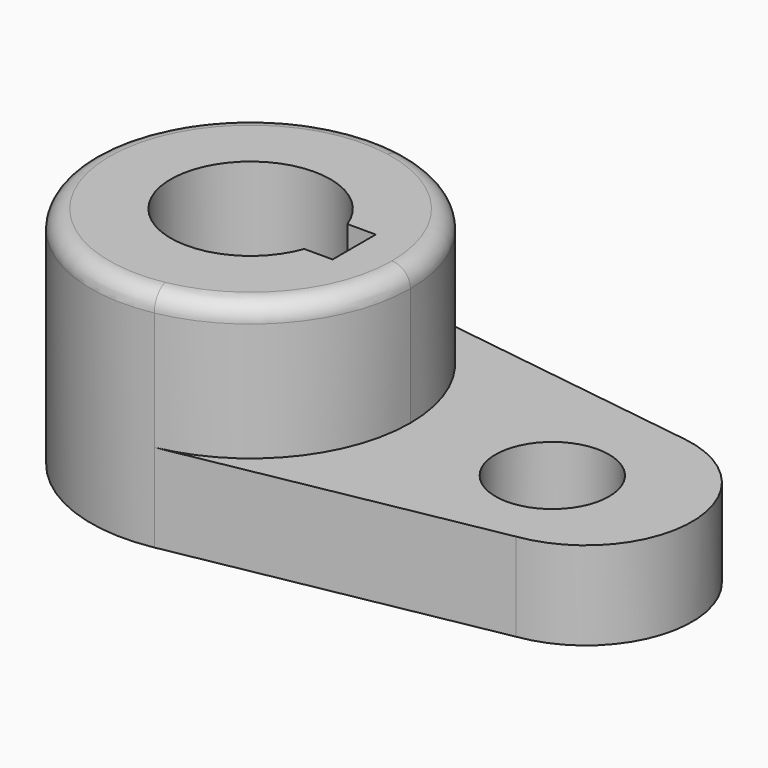
from build123d import *

# Parameters (mm, degrees)
F1_DEPTH = 40.2336
F0_R     = 10.16
F2_DEPTH = 15.7734
F3_R     = 3.302


with BuildPart() as f1:
    # F0 (on Top) → F1 (new body)
    with BuildSketch(Plane.XY):
        with BuildLine():
            ThreePointArc((-42.827169, -15.683244), (-26.084127, -5.852856), (-19.488047, 12.407968))
            ThreePointArc((-19.488047, 12.407968), (-26.084127, 30.668792), (-42.827169, 40.49918))
            ThreePointArc((-42.827169, 40.49918), (-76.638047, 12.407968), (-42.827169, -15.683244))
        make_face()
        with BuildLine():
            ThreePointArc((-34.615282, 7.581968), (-62.350547, 12.407968), (-34.615282, 17.233968))
            Line((-34.615282, 17.233968), (-29.533747, 17.233968))
            Line((-29.533747, 17.233968), (-29.533747, 7.581968))
            Line((-29.533747, 7.581968), (-34.615282, 7.581968))
        make_face(mode=Mode.SUBTRACT)
    extrude(amount=F1_DEPTH)

    # F0 (on Top) → F2 (join)
    with BuildSketch(Plane.XY):
        with BuildLine():
            ThreePointArc((-42.827169, -15.683244), (-26.084127, -5.852856), (-19.488047, 12.407968))
            ThreePointArc((-19.488047, 12.407968), (-26.084127, 30.668792), (-42.827169, 40.49918))
            ThreePointArc((-42.827169, 40.49918), (-76.638047, 12.407968), (-42.827169, -15.683244))
        make_face()
        with BuildLine():
            ThreePointArc((-34.615282, 7.581968), (-62.350547, 12.407968), (-34.615282, 17.233968))
            Line((-34.615282, 17.233968), (-29.533747, 17.233968))
            Line((-29.533747, 17.233968), (-29.533747, 7.581968))
            Line((-29.533747, 7.581968), (-34.615282, 7.581968))
        make_face(mode=Mode.SUBTRACT)
        with BuildLine():
            ThreePointArc((-42.827169, 40.49918), (-26.084127, 30.668792), (-19.488047, 12.407968))
            ThreePointArc((-19.488047, 12.407968), (-26.084127, -5.852856), (-42.827169, -15.683244))
            Line((-42.827169, -15.683244), (13.505259, -5.183529))
            ThreePointArc((13.505259, -5.183529), (29.890809, 13.679218), (13.505259, 32.541964))
            Line((13.505259, 32.541964), (-42.827169, 40.49918))
        make_face()
        with Locations((5.911953, 12.407968)):
            Circle(F0_R, mode=Mode.SUBTRACT)
    extrude(amount=F2_DEPTH)

    # F3
    f3_edges = [f1.edges().sort_by_distance(p)[0] for p in [
        (-53.298926, 40.49918, 40.2336),
    ]]
    fillet(f3_edges, radius=F3_R)


solid = f1.part
